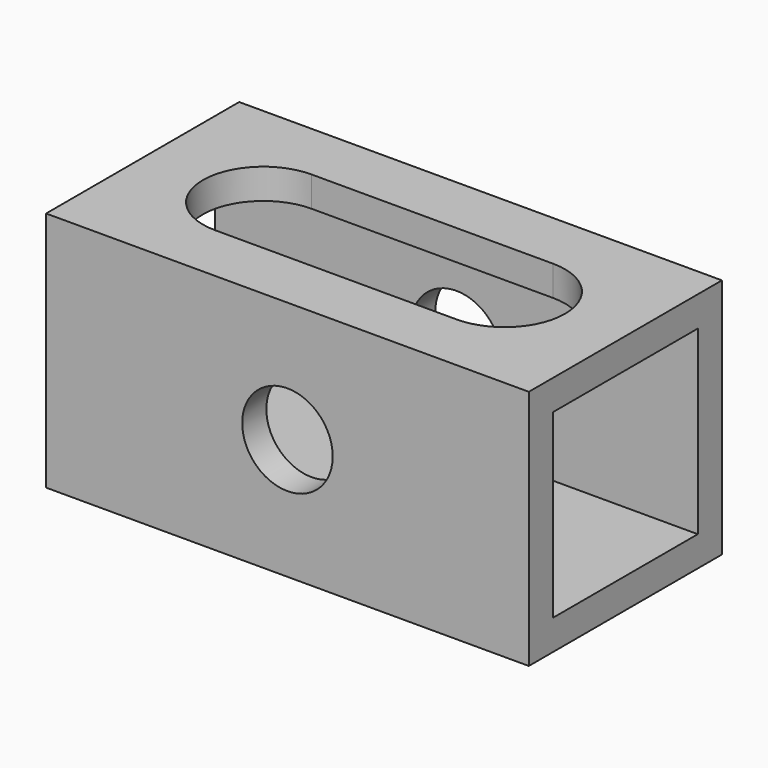
from build123d import *

# Parameters (mm, degrees)
F0_W     = 50.8
F0_H     = 25.4
F1_DEPTH = 25.4
F2_W     = 19.05
F2_H     = 19.05
F3_DEPTH = 50.801
F4_R     = 4.7625
F5_DEPTH = 25.401
F7_DEPTH = 3.175


with BuildPart() as f1:
    # F0 (on Top) → F1 (new body)
    with BuildSketch(Plane.XY):
        with Locations((25.4, 12.7)):
            Rectangle(F0_W, F0_H)
    extrude(amount=F1_DEPTH)

    # F2 (on face) → F3 (cut, through all)
    with BuildSketch(Plane.YZ.offset(50.8)):
        with Locations((12.7, 12.7)):
            Rectangle(F2_W, F2_H)
    extrude(amount=-F3_DEPTH, mode=Mode.SUBTRACT)

    # F4 (on face) → F5 (cut, through all)
    with BuildSketch(Plane.XZ):
        with Locations((25.4, 12.7)):
            Circle(F4_R)
    extrude(amount=-F5_DEPTH, mode=Mode.SUBTRACT)

    # F6 (on face) → F7 (cut, through all)
    with BuildSketch(Plane.XY.offset(25.4)):
        with BuildLine():
            ThreePointArc((12.7, 19.05), (6.35, 12.7), (12.7, 6.35))
            Line((12.7, 6.35), (12.7, 19.05))
        make_face()
        with BuildLine():
            Line((12.7, 19.05), (12.7, 6.35))
            ThreePointArc((12.7, 6.35), (17.190128, 8.209872), (19.05, 12.7))
            ThreePointArc((19.05, 12.7), (17.190128, 17.190128), (12.7, 19.05))
        make_face()
        with BuildLine():
            Line((12.7, 6.35), (38.1, 6.35))
            ThreePointArc((38.1, 6.35), (31.75, 12.7), (38.1, 19.05))
            Line((38.1, 19.05), (12.7, 19.05))
            ThreePointArc((12.7, 19.05), (17.190128, 17.190128), (19.05, 12.7))
            ThreePointArc((19.05, 12.7), (17.190128, 8.209872), (12.7, 6.35))
        make_face()
        with BuildLine():
            ThreePointArc((38.1, 19.05), (31.75, 12.7), (38.1, 6.35))
            Line((38.1, 6.35), (38.1, 19.05))
        make_face()
        with BuildLine():
            Line((38.1, 19.05), (38.1, 6.35))
            ThreePointArc((38.1, 6.35), (42.590128, 8.209872), (44.45, 12.7))
            ThreePointArc((44.45, 12.7), (42.590128, 17.190128), (38.1, 19.05))
        make_face()
    extrude(amount=-F7_DEPTH, mode=Mode.SUBTRACT)


solid = f1.part
